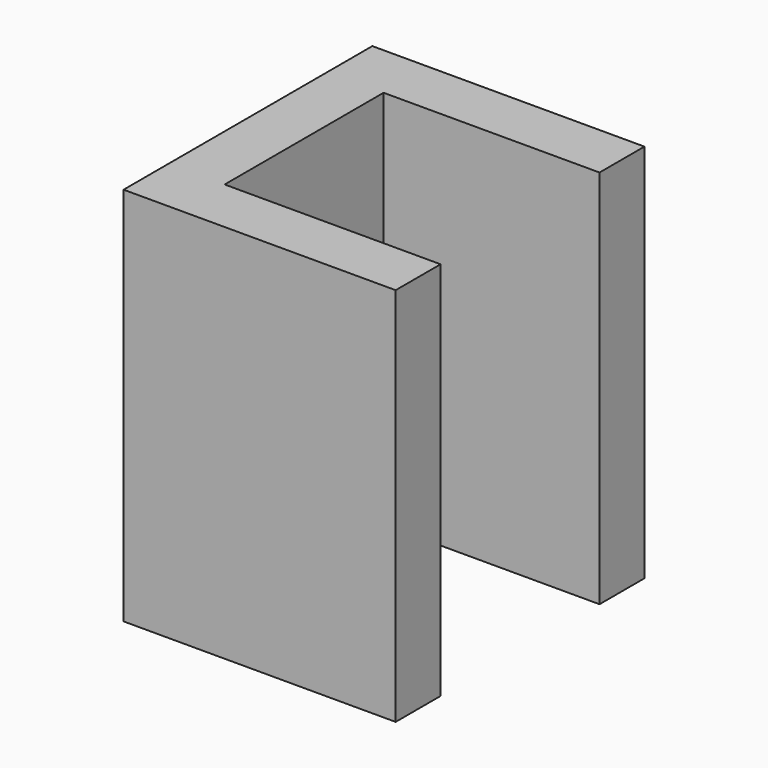
from build123d import *

# Parameters (mm, degrees)
EXTRUDE_DEPTH = 88


with BuildPart() as part:
    # Sketch → Extrude (new body)
    with BuildSketch(Plane.XY):
        Polygon((62.536836, 100.973101), (62.536836, 28.973101), (125.536836, 28.973101), (125.536836, 41.973101), (75.536836, 41.973101), (75.536836, 87.973101), (125.536836, 87.973101), (125.536836, 100.973101), align=None)
    extrude(amount=EXTRUDE_DEPTH)


solid = part.part
